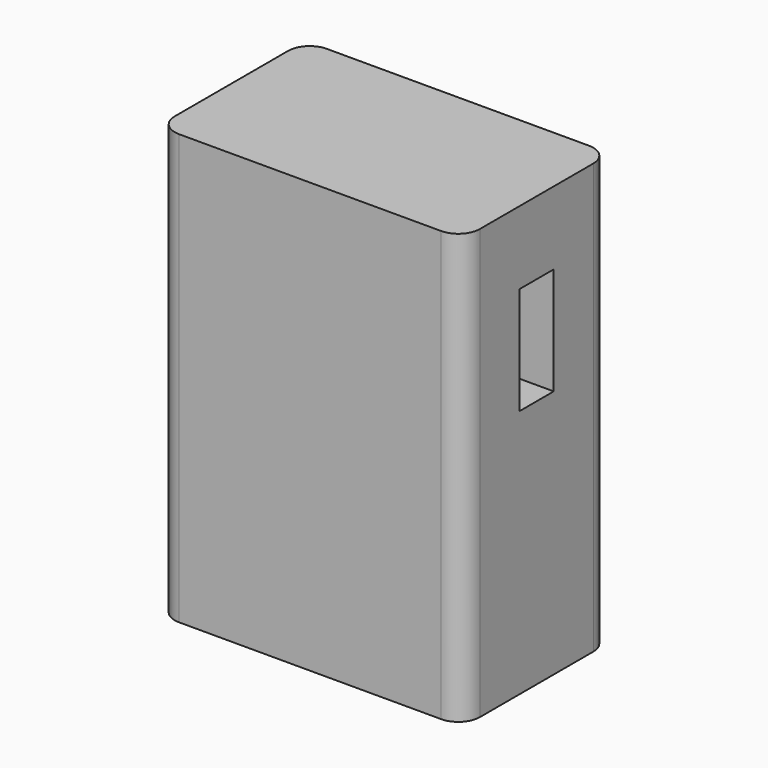
from build123d import *

# Parameters (mm, degrees)
F1_DEPTH = 50
F2_W     = 5
F2_H     = 12.5
F3_DEPTH = 10


with BuildPart() as f1:
    # F0 (on Top) → F1 (new body)
    with BuildSketch(Plane.XY):
        with BuildLine():
            Line((-15.25, -10.75), (15.25, -10.75))
            ThreePointArc((15.25, -10.75), (17.017767, -10.017767), (17.75, -8.25))
            Line((17.75, -8.25), (17.75, 8.25))
            ThreePointArc((17.75, 8.25), (17.017767, 10.017767), (15.25, 10.75))
            Line((15.25, 10.75), (-15.25, 10.75))
            ThreePointArc((-15.25, 10.75), (-17.017767, 10.017767), (-17.75, 8.25))
            Line((-17.75, 8.25), (-17.75, -8.25))
            ThreePointArc((-17.75, -8.25), (-17.017767, -10.017767), (-15.25, -10.75))
        make_face()
    extrude(amount=F1_DEPTH)

    # F2 (on face) → F3 (cut)
    with BuildSketch(Plane.YZ.offset(17.75)):
        with Locations((0, 35.25)):
            Rectangle(F2_W, F2_H)
    extrude(amount=-F3_DEPTH, mode=Mode.SUBTRACT)


solid = f1.part
